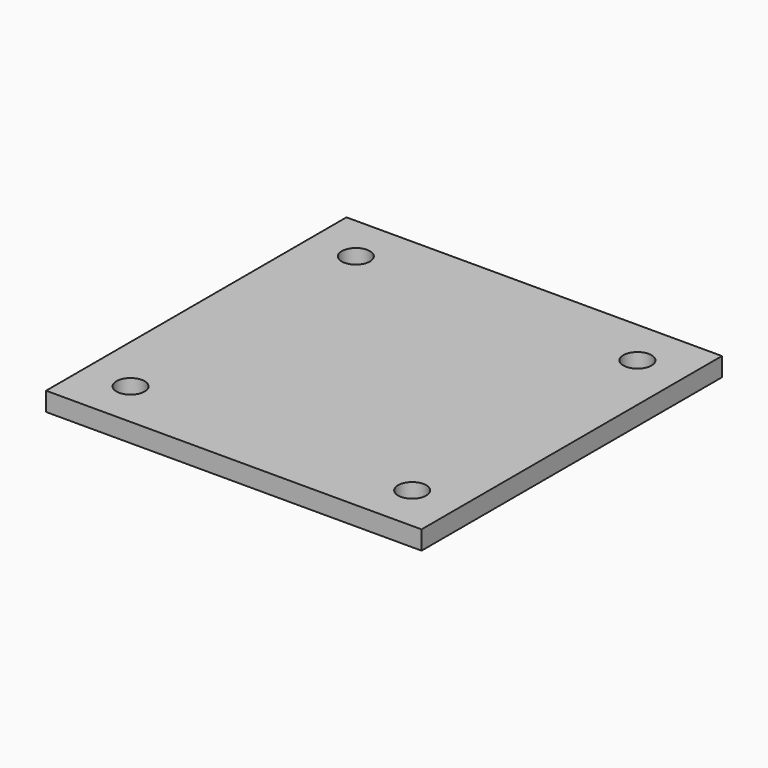
from build123d import *

# Parameters (mm, degrees)
F0_W     = 80
F0_H     = 80
F1_DEPTH = 4
F2_W     = 50
F2_H     = 25
F3_DEPTH = 3
F4_D     = 6


with BuildPart() as f1:
    # F0 (on Top) → F1 (new body)
    with BuildSketch(Plane.XY):
        Rectangle(F0_W, F0_H)
    extrude(amount=F1_DEPTH)

    # F2 (on face) → F3 (join)
    with BuildSketch(Plane(origin=(0, 0, 0), x_dir=(1, 0, 0), z_dir=(0, 0, -1))):
        with Locations((0, 19.5)):
            Rectangle(F2_W, F2_H)
    extrude(amount=F3_DEPTH)

    # F4 (through all)
    with Locations(Plane(origin=(0, 0, 0), x_dir=(1, 0, 0), z_dir=(0, 0, -1))):
        with Locations((-30, 30), (30, 30), (30, -30), (-30, -30)):
            Hole(F4_D / 2)


solid = f1.part
